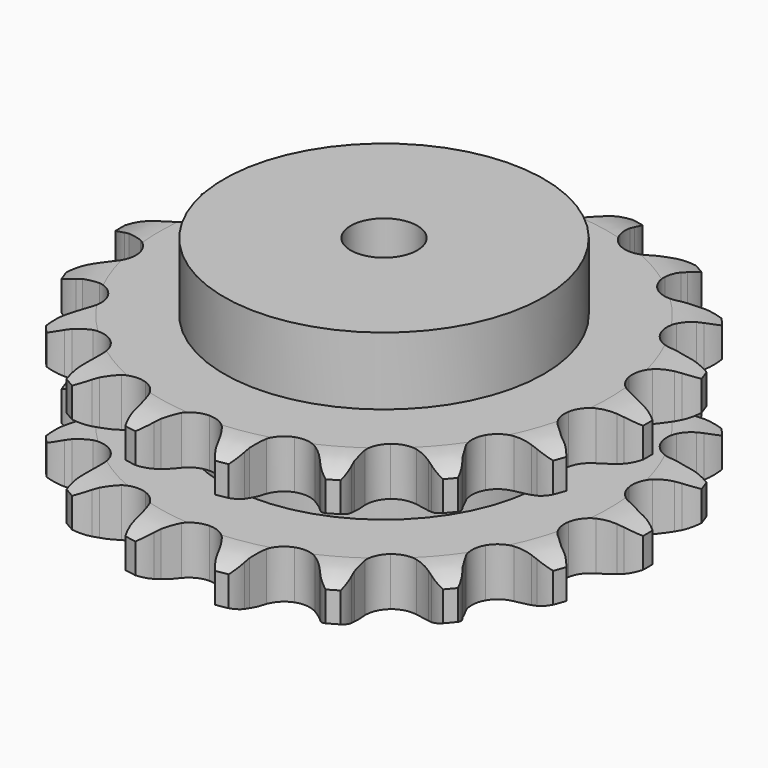
from build123d import *

# Parameters (mm, degrees)
PAD_DEPTH         = 54.6
SKETCH001_R       = 60
PAD001_DEPTH      = 80
SKETCH002_R       = 12.5
POCKET_DEPTH      = 0.001
POCKET_DEPTH_BACK = 80.001


with BuildPart() as part:
    # Sprocket → Pad (new body)
    with BuildSketch(Plane.XY):
        with BuildLine():
            ThreePointArc((-17.641223, 100.048345), (-14.184485, 96.998819), (-11.753817, 93.082126))
            Line((-11.753817, 93.082126), (-10.844711, 90.985769))
            ThreePointArc((-10.844711, 90.985769), (-9.371515, 88.115133), (-7.538803, 85.459569))
            ThreePointArc((-7.538803, 85.459569), (-4.18792, 82.7702), (0, 81.809756))
            ThreePointArc((0, 81.809756), (4.18792, 82.7702), (7.538803, 85.459569))
            ThreePointArc((7.538803, 85.459569), (9.371515, 88.115133), (10.844711, 90.985769))
            Line((10.844711, 90.985769), (11.753817, 93.082126))
            ThreePointArc((11.753817, 93.082126), (14.184485, 96.998819), (17.641223, 100.048345))
            ThreePointArc((17.641223, 100.048345), (19.846494, 96.000455), (20.790987, 91.488629))
            Line((20.790987, 91.488629), (20.928271, 89.207765))
            ThreePointArc((20.928271, 89.207765), (21.330807, 86.006387), (22.144736, 82.884149))
            ThreePointArc((22.144736, 82.884149), (24.373719, 79.210899), (27.980585, 76.876024))
            ThreePointArc((27.980585, 76.876024), (32.244433, 76.346194), (36.313052, 77.727303))
            Line((36.313052, 77.727303), (41.30966, 81.789546))
            ThreePointArc((41.30966, 81.789546), (42.076221, 82.637115), (42.880937, 83.448545))
            ThreePointArc((42.880937, 83.448545), (46.504606, 86.297695), (50.795876, 87.981038))
            ThreePointArc((50.795876, 87.981038), (51.483693, 83.423018), (50.828092, 78.860253))
            Line((50.828092, 78.860253), (50.176995, 76.669988))
            ThreePointArc((50.176995, 76.669988), (49.460319, 73.524002), (49.157294, 70.311677))
            ThreePointArc((49.157294, 70.311677), (49.995527, 66.097595), (52.586298, 62.669909))
            ThreePointArc((52.586298, 62.669909), (56.411792, 60.713709), (60.70741, 60.619978))
            Line((60.70741, 60.619978), (66.792055, 62.728297))
            ThreePointArc((66.792055, 62.728297), (67.802272, 63.262572), (68.835983, 63.749838))
            ThreePointArc((68.835983, 63.749838), (73.215585, 65.187795), (77.823797, 65.301919))
            ThreePointArc((77.823797, 65.301919), (76.911199, 60.783534), (74.734578, 56.720167))
            Line((74.734578, 56.720167), (73.373632, 54.884679))
            ThreePointArc((73.373632, 54.884679), (71.624187, 52.173536), (70.240756, 49.258579))
            ThreePointArc((70.240756, 49.258579), (69.587136, 45.011945), (70.849327, 40.904878))
            ThreePointArc((70.849327, 40.904878), (73.775056, 37.758255), (77.779559, 36.200989))
            Line((77.779559, 36.200989), (84.218343, 36.10109))
            ThreePointArc((84.218343, 36.10109), (85.350368, 36.257629), (86.488394, 36.361959))
            ThreePointArc((86.488394, 36.361959), (91.095684, 36.215285), (95.465019, 34.746425))
            ThreePointArc((95.465019, 34.746425), (93.062079, 30.812659), (89.626971, 27.738791))
            Line((89.626971, 27.738791), (87.720326, 26.479468))
            ThreePointArc((87.720326, 26.479468), (85.14912, 24.530173), (82.852146, 22.26417))
            ThreePointArc((82.852146, 22.26417), (80.78551, 18.49719), (80.566882, 14.206115))
            ThreePointArc((80.566882, 14.206115), (82.23996, 10.248599), (85.470345, 7.415626))
            Line((85.470345, 7.415626), (91.486655, 5.119558))
            ThreePointArc((91.486655, 5.119558), (92.603951, 4.879481), (93.709028, 4.588292))
            ThreePointArc((93.709028, 4.588292), (97.988299, 2.874677), (101.591752, 0))
            ThreePointArc((101.591752, 0), (97.988299, -2.874677), (93.709028, -4.588292))
            Line((93.709028, -4.588292), (91.486655, -5.119558))
            ThreePointArc((91.486655, -5.119558), (88.403813, -6.071892), (85.470345, -7.415626))
            ThreePointArc((85.470345, -7.415626), (82.23996, -10.248599), (80.566882, -14.206115))
            ThreePointArc((80.566882, -14.206115), (80.78551, -18.49719), (82.852146, -22.26417))
            Line((82.852146, -22.26417), (87.720326, -26.479468))
            ThreePointArc((87.720326, -26.479468), (88.68813, -27.087204), (89.626971, -27.738791))
            ThreePointArc((89.626971, -27.738791), (93.062079, -30.812659), (95.465019, -34.746425))
            ThreePointArc((95.465019, -34.746425), (91.095684, -36.215285), (86.488394, -36.361959))
            Line((86.488394, -36.361959), (84.218343, -36.10109))
            ThreePointArc((84.218343, -36.10109), (80.995701, -35.941597), (77.779559, -36.200989))
            ThreePointArc((77.779559, -36.200989), (73.775056, -37.758255), (70.849327, -40.904878))
            ThreePointArc((70.849327, -40.904878), (69.587136, -45.011945), (70.240756, -49.258579))
            Line((70.240756, -49.258579), (73.373632, -54.884679))
            ThreePointArc((73.373632, -54.884679), (74.075212, -55.786773), (74.734578, -56.720167))
            ThreePointArc((74.734578, -56.720167), (76.911199, -60.783534), (77.823797, -65.301919))
            ThreePointArc((77.823797, -65.301919), (73.215585, -65.187795), (68.835983, -63.749838))
            Line((68.835983, -63.749838), (66.792055, -62.728297))
            ThreePointArc((66.792055, -62.728297), (63.818313, -61.476215), (60.70741, -60.619978))
            ThreePointArc((60.70741, -60.619978), (56.411792, -60.713709), (52.586298, -62.669909))
            ThreePointArc((52.586298, -62.669909), (49.995527, -66.097595), (49.157294, -70.311677))
            Line((49.157294, -70.311677), (50.176995, -76.669988))
            ThreePointArc((50.176995, -76.669988), (50.52773, -77.757633), (50.828092, -78.860253))
            ThreePointArc((50.828092, -78.860253), (51.483693, -83.423018), (50.795876, -87.981038))
            ThreePointArc((50.795876, -87.981038), (46.504606, -86.297695), (42.880937, -83.448545))
            Line((42.880937, -83.448545), (41.30966, -81.789546))
            ThreePointArc((41.30966, -81.789546), (38.943494, -79.595894), (36.313052, -77.727303))
            ThreePointArc((36.313052, -77.727303), (32.244433, -76.346194), (27.980585, -76.876024))
            ThreePointArc((27.980585, -76.876024), (24.373719, -79.210899), (22.144736, -82.884149))
            Line((22.144736, -82.884149), (20.928271, -89.207765))
            ThreePointArc((20.928271, -89.207765), (20.885859, -90.349776), (20.790987, -91.488629))
            ThreePointArc((20.790987, -91.488629), (19.846494, -96.000455), (17.641223, -100.048345))
            ThreePointArc((17.641223, -100.048345), (14.184485, -96.998819), (11.753817, -93.082126))
            Line((11.753817, -93.082126), (10.844711, -90.985769))
            ThreePointArc((10.844711, -90.985769), (9.371515, -88.115133), (7.538803, -85.459569))
            ThreePointArc((7.538803, -85.459569), (4.18792, -82.7702), (0, -81.809756))
            ThreePointArc((0, -81.809756), (-4.18792, -82.7702), (-7.538803, -85.459569))
            Line((-7.538803, -85.459569), (-10.844711, -90.985769))
            ThreePointArc((-10.844711, -90.985769), (-11.275156, -92.044402), (-11.753817, -93.082126))
            ThreePointArc((-11.753817, -93.082126), (-14.184485, -96.998819), (-17.641223, -100.048345))
            ThreePointArc((-17.641223, -100.048345), (-19.846494, -96.000455), (-20.790987, -91.488629))
            Line((-20.790987, -91.488629), (-20.928271, -89.207765))
            ThreePointArc((-20.928271, -89.207765), (-21.330807, -86.006387), (-22.144736, -82.884149))
            ThreePointArc((-22.144736, -82.884149), (-24.373719, -79.210899), (-27.980585, -76.876024))
            ThreePointArc((-27.980585, -76.876024), (-32.244433, -76.346194), (-36.313052, -77.727303))
            Line((-36.313052, -77.727303), (-41.30966, -81.789546))
            ThreePointArc((-41.30966, -81.789546), (-42.076221, -82.637115), (-42.880937, -83.448545))
            ThreePointArc((-42.880937, -83.448545), (-46.504606, -86.297695), (-50.795876, -87.981038))
            ThreePointArc((-50.795876, -87.981038), (-51.483693, -83.423018), (-50.828092, -78.860253))
            Line((-50.828092, -78.860253), (-50.176995, -76.669988))
            ThreePointArc((-50.176995, -76.669988), (-49.460319, -73.524002), (-49.157294, -70.311677))
            ThreePointArc((-49.157294, -70.311677), (-49.995527, -66.097595), (-52.586298, -62.669909))
            ThreePointArc((-52.586298, -62.669909), (-56.411792, -60.713709), (-60.70741, -60.619978))
            Line((-60.70741, -60.619978), (-66.792055, -62.728297))
            ThreePointArc((-66.792055, -62.728297), (-67.802272, -63.262572), (-68.835983, -63.749838))
            ThreePointArc((-68.835983, -63.749838), (-73.215585, -65.187795), (-77.823797, -65.301919))
            ThreePointArc((-77.823797, -65.301919), (-76.911199, -60.783534), (-74.734578, -56.720167))
            Line((-74.734578, -56.720167), (-73.373632, -54.884679))
            ThreePointArc((-73.373632, -54.884679), (-71.624187, -52.173536), (-70.240756, -49.258579))
            ThreePointArc((-70.240756, -49.258579), (-69.587136, -45.011945), (-70.849327, -40.904878))
            ThreePointArc((-70.849327, -40.904878), (-73.775056, -37.758255), (-77.779559, -36.200989))
            Line((-77.779559, -36.200989), (-84.218343, -36.10109))
            ThreePointArc((-84.218343, -36.10109), (-85.350368, -36.257629), (-86.488394, -36.361959))
            ThreePointArc((-86.488394, -36.361959), (-91.095684, -36.215285), (-95.465019, -34.746425))
            ThreePointArc((-95.465019, -34.746425), (-93.062079, -30.812659), (-89.626971, -27.738791))
            Line((-89.626971, -27.738791), (-87.720326, -26.479468))
            ThreePointArc((-87.720326, -26.479468), (-85.14912, -24.530173), (-82.852146, -22.26417))
            ThreePointArc((-82.852146, -22.26417), (-80.78551, -18.49719), (-80.566882, -14.206115))
            ThreePointArc((-80.566882, -14.206115), (-82.23996, -10.248599), (-85.470345, -7.415626))
            Line((-85.470345, -7.415626), (-91.486655, -5.119558))
            ThreePointArc((-91.486655, -5.119558), (-92.603951, -4.879481), (-93.709028, -4.588292))
            ThreePointArc((-93.709028, -4.588292), (-97.988299, -2.874677), (-101.591752, 0))
            ThreePointArc((-101.591752, 0), (-97.988299, 2.874677), (-93.709028, 4.588292))
            Line((-93.709028, 4.588292), (-91.486655, 5.119558))
            ThreePointArc((-91.486655, 5.119558), (-88.403813, 6.071892), (-85.470345, 7.415626))
            ThreePointArc((-85.470345, 7.415626), (-82.23996, 10.248599), (-80.566882, 14.206115))
            ThreePointArc((-80.566882, 14.206115), (-80.78551, 18.49719), (-82.852146, 22.26417))
            Line((-82.852146, 22.26417), (-87.720326, 26.479468))
            ThreePointArc((-87.720326, 26.479468), (-88.68813, 27.087204), (-89.626971, 27.738791))
            ThreePointArc((-89.626971, 27.738791), (-93.062079, 30.812659), (-95.465019, 34.746425))
            ThreePointArc((-95.465019, 34.746425), (-91.095684, 36.215285), (-86.488394, 36.361959))
            Line((-86.488394, 36.361959), (-84.218343, 36.10109))
            ThreePointArc((-84.218343, 36.10109), (-80.995701, 35.941597), (-77.779559, 36.200989))
            ThreePointArc((-77.779559, 36.200989), (-73.775056, 37.758255), (-70.849327, 40.904878))
            ThreePointArc((-70.849327, 40.904878), (-69.587136, 45.011945), (-70.240756, 49.258579))
            Line((-70.240756, 49.258579), (-73.373632, 54.884679))
            ThreePointArc((-73.373632, 54.884679), (-74.075212, 55.786773), (-74.734578, 56.720167))
            ThreePointArc((-74.734578, 56.720167), (-76.911199, 60.783534), (-77.823797, 65.301919))
            ThreePointArc((-77.823797, 65.301919), (-73.215585, 65.187795), (-68.835983, 63.749838))
            Line((-68.835983, 63.749838), (-66.792055, 62.728297))
            ThreePointArc((-66.792055, 62.728297), (-63.818313, 61.476215), (-60.70741, 60.619978))
            ThreePointArc((-60.70741, 60.619978), (-56.411792, 60.713709), (-52.586298, 62.669909))
            ThreePointArc((-52.586298, 62.669909), (-49.995527, 66.097595), (-49.157294, 70.311677))
            Line((-49.157294, 70.311677), (-50.176995, 76.669988))
            ThreePointArc((-50.176995, 76.669988), (-50.52773, 77.757633), (-50.828092, 78.860253))
            ThreePointArc((-50.828092, 78.860253), (-51.483693, 83.423018), (-50.795876, 87.981038))
            ThreePointArc((-50.795876, 87.981038), (-46.504606, 86.297695), (-42.880937, 83.448545))
            Line((-42.880937, 83.448545), (-41.30966, 81.789546))
            ThreePointArc((-41.30966, 81.789546), (-38.943494, 79.595894), (-36.313052, 77.727303))
            ThreePointArc((-36.313052, 77.727303), (-32.244433, 76.346194), (-27.980585, 76.876024))
            ThreePointArc((-27.980585, 76.876024), (-24.373719, 79.210899), (-22.144736, 82.884149))
            Line((-22.144736, 82.884149), (-20.928271, 89.207765))
            ThreePointArc((-20.928271, 89.207765), (-20.885859, 90.349776), (-20.790987, 91.488629))
            ThreePointArc((-20.790987, 91.488629), (-19.846494, 96.000455), (-17.641223, 100.048345))
        make_face()
    extrude(amount=PAD_DEPTH)

    # Sketch → Groove (revolve, cut)
    with BuildSketch(Plane.XZ):
        with BuildLine():
            ThreePointArc((84.448368, 0), (91.931683, 0.887302), (99, 3.5))
            Line((99, 3.5), (99, 14.7))
            ThreePointArc((99, 14.7), (91.931683, 17.312698), (84.448368, 18.2))
            Line((60, 18.2), (84.448368, 18.2))
            Line((60, 36.4), (60, 18.2))
            Line((84.448368, 36.4), (60, 36.4))
            ThreePointArc((84.448368, 36.4), (91.931683, 37.287302), (99, 39.9))
            Line((99, 39.9), (99, 51.1))
            ThreePointArc((99, 51.1), (91.931683, 53.712698), (84.448368, 54.6))
            Line((84.448368, 54.6), (109, 54.6))
            Line((109, 54.6), (109, 0))
            Line((84.448368, 0), (109, 0))
        make_face()
    revolve(axis=Axis((0, 0, 0), (0, 0, 1)), mode=Mode.SUBTRACT)

    # Sketch001 → Pad001 (join)
    with BuildSketch(Plane.XY):
        Circle(SKETCH001_R)
    extrude(amount=PAD001_DEPTH)

    # Sketch002 → Pocket (cut, two sides)
    with BuildSketch(Plane.XY) as pocket_sk:
        Circle(SKETCH002_R)
    extrude(amount=-POCKET_DEPTH, mode=Mode.SUBTRACT)
    extrude(pocket_sk.sketch, amount=POCKET_DEPTH_BACK, mode=Mode.SUBTRACT)


solid = part.part
